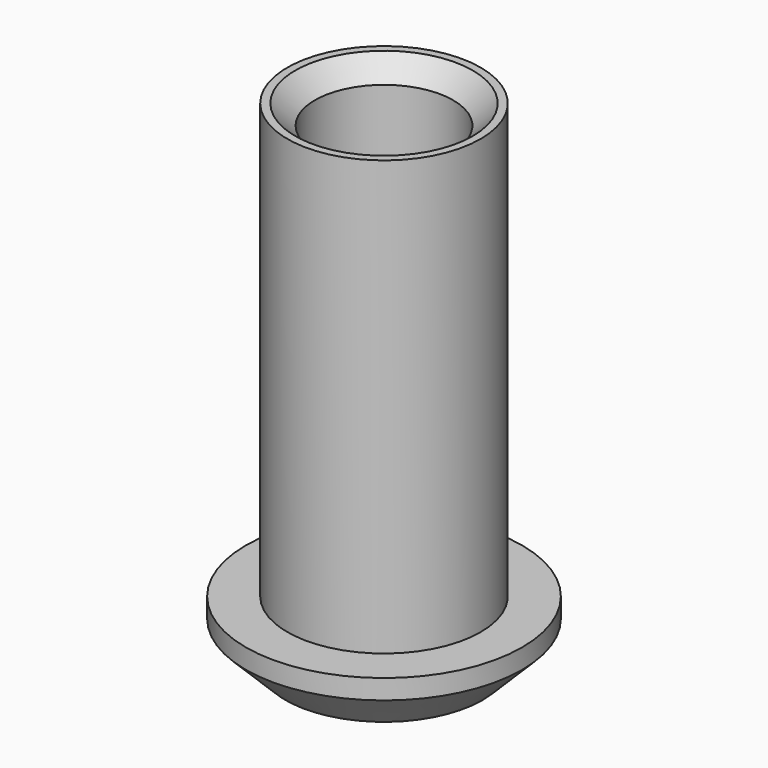
from build123d import *

# Parameters (mm, degrees)
F0_R     = 4.9
F0_R_2   = 3.5
F1_DEPTH = 25
F0_R_3   = 7
F2_DEPTH = 3
F3_SIZE  = 2
F4_SIZE  = 1


with BuildPart() as f1:
    # F0 (on Top) → F1 (new body)
    with BuildSketch(Plane.XY):
        Circle(F0_R)
        Circle(F0_R_2, mode=Mode.SUBTRACT)
    extrude(amount=F1_DEPTH)

    # F0 (on Top) → F2 (join)
    with BuildSketch(Plane.XY):
        Circle(F0_R_3)
        Circle(F0_R, mode=Mode.SUBTRACT)
    extrude(amount=F2_DEPTH)

    # F3
    f3_edges = [f1.edges().sort_by_distance(p)[0] for p in [
        (-7, 0, 0),
    ]]
    chamfer(f3_edges, length=F3_SIZE)

    # F4
    f4_edges = [f1.edges().sort_by_distance(p)[0] for p in [
        (-3.5, 0, 25),
    ]]
    chamfer(f4_edges, length=F4_SIZE)


solid = f1.part
